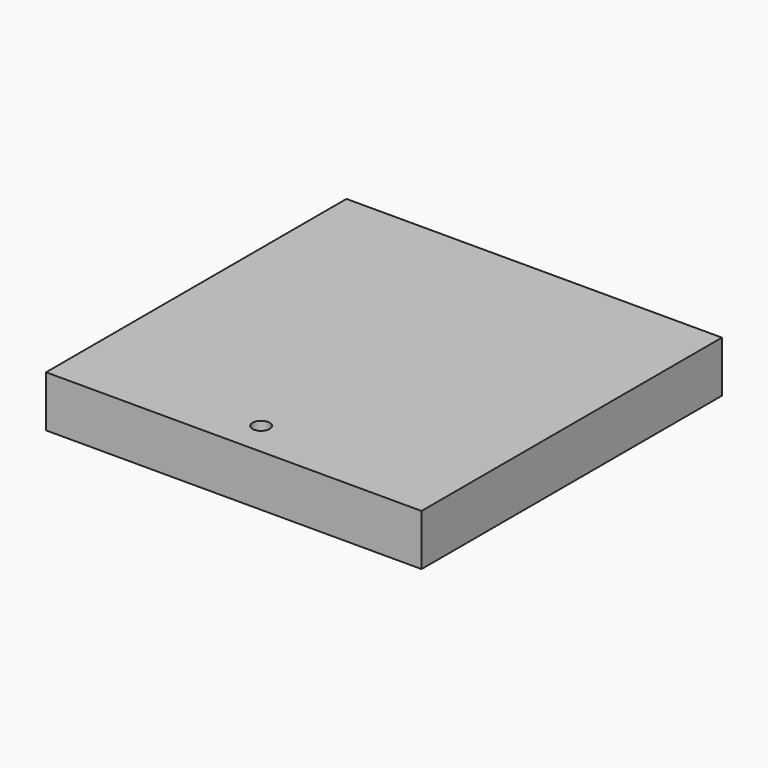
from build123d import *

# Parameters (mm, degrees)
F1_DEPTH = 19.05


with BuildPart() as f1:
    # F0 (on Top) → F1 (new body)
    with BuildSketch(Plane.XY):
        with BuildLine():
            ThreePointArc((3.175, -57.15), (-2.245064, -54.904936), (0, -60.325))
            ThreePointArc((0, -60.325), (2.245064, -59.395064), (3.175, -57.15))
        make_face()
        Polygon((69.85, 69.85), (-69.85, 69.85), (-69.85, -69.85), (0, -69.85), (69.85, -69.85), align=None)
        with BuildLine():
            ThreePointArc((3.175, -57.15), (2.245064, -59.395064), (0, -60.325))
            ThreePointArc((0, -60.325), (-2.245064, -54.904936), (3.175, -57.15))
        make_face(mode=Mode.SUBTRACT)
    extrude(amount=F1_DEPTH)


solid = f1.part
